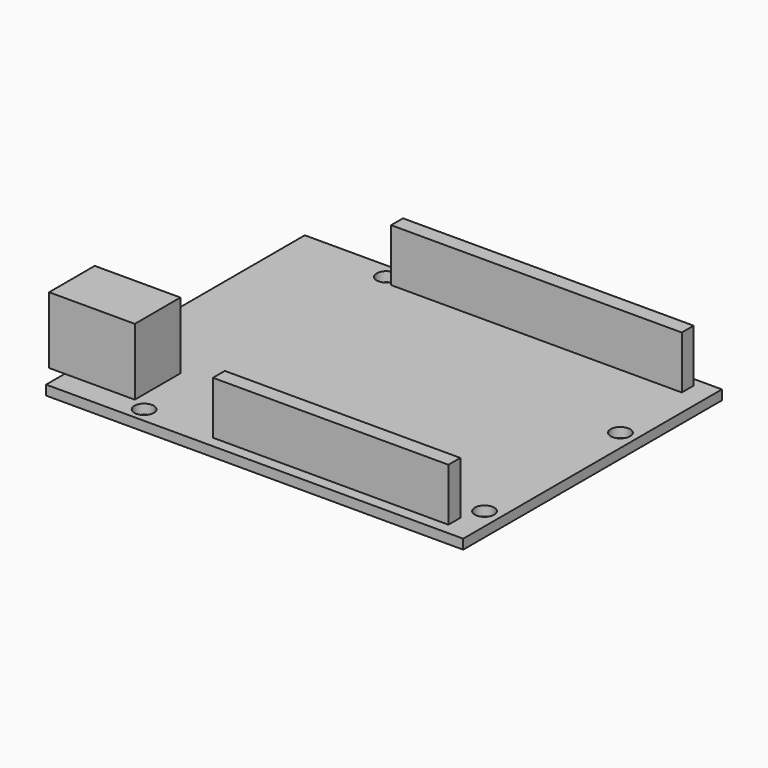
from build123d import *

# Parameters (mm, degrees)
F0_W     = 68.75
F0_H     = 53.3
F0_R     = 1.6
F1_DEPTH = 1.6
F3_W     = 14.12
F3_H     = 9.4
F4_DEPTH = 11
F3_W_2   = 47.9
F3_H_2   = 2.45
F5_DEPTH = 8.7
F3_W_3   = 38.81


with BuildPart() as f1:
    # F0 (on Top) → F1 (new body)
    with BuildSketch(Plane.XY):
        with Locations((34.375, 26.65)):
            Rectangle(F0_W, F0_H)
        with Locations((14.16, 2.5)):
            Circle(F0_R, mode=Mode.SUBTRACT)
        with Locations((66.1, 7.7)):
            Circle(F0_R, mode=Mode.SUBTRACT)
        with Locations((15.45, 50.8)):
            Circle(F0_R, mode=Mode.SUBTRACT)
        with Locations((66.1, 35.7)):
            Circle(F0_R, mode=Mode.SUBTRACT)
    extrude(amount=F1_DEPTH)


with BuildPart() as f4:
    # F3 (on offset) → F4 (new body)
    with BuildSketch(Plane.XY.offset(1.8)):
        with Locations((4.72, 8.25)):
            Rectangle(F3_W, F3_H)
    extrude(amount=F4_DEPTH)


with BuildPart() as f5:
    # F3 (on offset) → F5 (new body)
    with BuildSketch(Plane.XY.offset(1.8)):
        with Locations((41.55, 50.315)):
            Rectangle(F3_W_2, F3_H_2)
    extrude(amount=F5_DEPTH)


with BuildPart() as f5b:
    # F3 (on offset) → F5, piece 2 (new body)
    with BuildSketch(Plane.XY.offset(1.8)):
        with Locations((45.665, 2.775)):
            Rectangle(F3_W_3, F3_H_2)
    extrude(amount=F5_DEPTH)


solid = Compound([f1.part, f4.part, f5.part, f5b.part])
